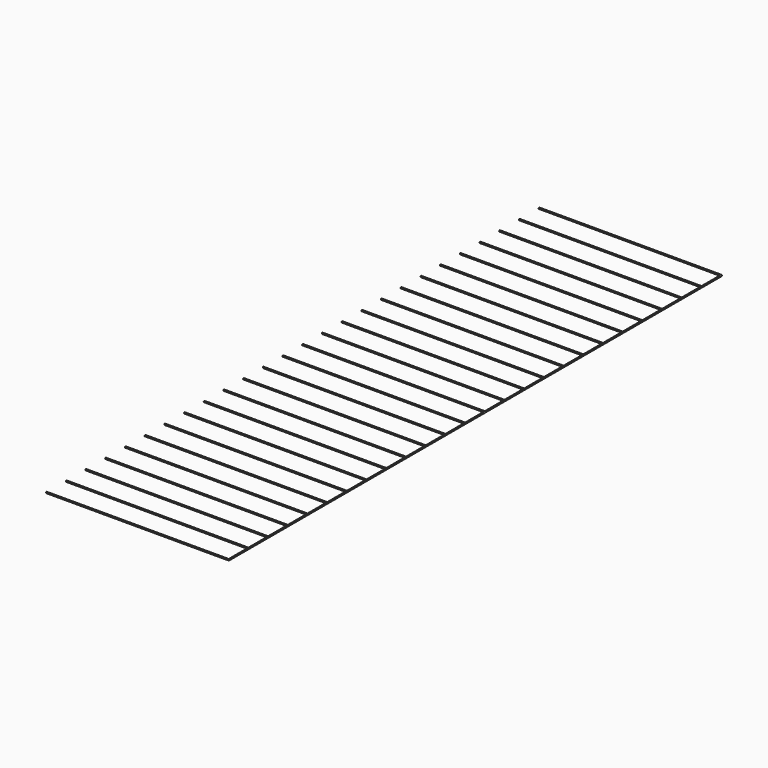
from build123d import *

# Parameters (mm, degrees)
SKETCH004_R            = 0.25
PAD001_DEPTH           = 250
SKETCH003_R            = 0.25
PAD002_DEPTH           = 74
LINEARPATTERN002_COUNT = 26
LINEARPATTERN002_PITCH = 10


with BuildPart() as part:
    # Sketch004 → Pad001 (new body)
    with BuildSketch(Plane(origin=(37, 0, 0), x_dir=(1, 0, 0), z_dir=(0, -1, 0))):
        Circle(SKETCH004_R)
    extrude(amount=-PAD001_DEPTH)

    # Sketch003 → Pad002 (join)
    with BuildSketch(Plane.YZ.offset(37)):
        Circle(SKETCH003_R)
    pad002 = extrude(amount=-PAD002_DEPTH)

    # LinearPattern002: Pad002 ×26
    with Locations(*[(0, i * LINEARPATTERN002_PITCH, 0) for i in range(1, LINEARPATTERN002_COUNT)]):
        add(pad002)


with BuildPart() as part_1:
    # Body001 placement: moved
    add(part.part.moved(Location((0, 5, 2))))


solid = part_1.part
